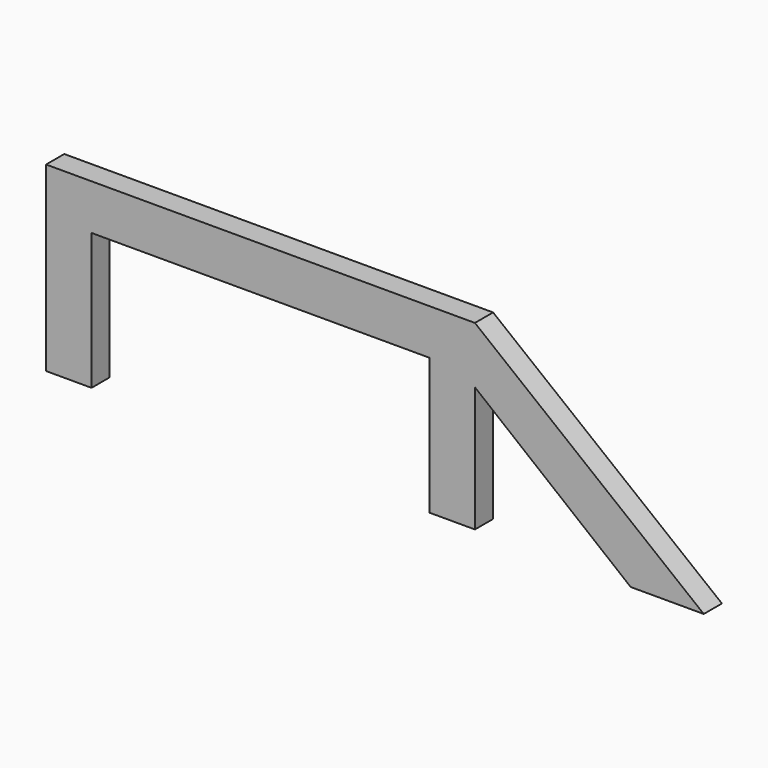
from build123d import *

# Parameters (mm, degrees)
F1_DEPTH = 75
F3_DEPTH = 69


with BuildPart() as f1:
    # F0 (on Front) → F1 (new body)
    with BuildSketch(Plane.XZ):
        Polygon((0, 600), (0, 0), (150, 0), (150, 450), (1265, 450), (1265, 0), (1415, 0), (1415, 413.248549), (1928.905491, 0), (2170, 0), (1415, 600), align=None)
    extrude(amount=F1_DEPTH)

    # F2 (on face) → F3 (cut)
    with BuildSketch(Plane(origin=(0, 0, 0), x_dir=(-1, 0, 0), z_dir=(0, 1, 0))):
        Polygon((-1405, 0), (-1275, 0), (-1275, 460), (-140, 460), (-140, 0), (-10, 0), (-10, 590), (-1410.821319, 590.520203), (-2153.822899, 0), (-1938.905491, 0), (-1405, 429.331216), align=None)
    extrude(amount=-F3_DEPTH, mode=Mode.SUBTRACT)


solid = f1.part
